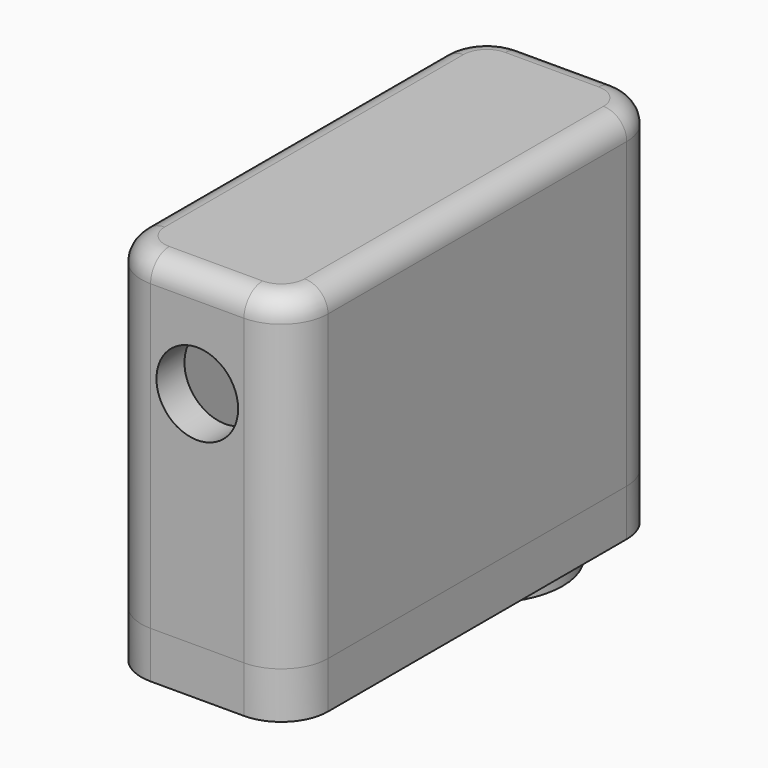
from build123d import *

# Parameters (mm, degrees)
F1_DEPTH  = 2
F2_R      = 2.25
F2_R_2    = 1.25
F3_DEPTH  = 2.001
F4_R      = 2.25
F4_R_2    = 1.25
F4_R_3    = 3.25
F5_DEPTH  = 1
F7_DEPTH  = 12
F8_R      = 1.75
F9_DEPTH  = 4
F11_DEPTH = 2
F12_R     = 1


with BuildPart() as f1:
    # F0 (on Top) → F1 (new body)
    with BuildSketch(Plane.XY):
        with BuildLine():
            ThreePointArc((0, 2), (0.585786, 0.585786), (2, 0))
            Line((2, 0), (6, 0))
            ThreePointArc((6, 0), (7.414214, 0.585786), (8, 2))
            Line((8, 2), (8, 18))
            ThreePointArc((8, 18), (7.414214, 19.414214), (6, 20))
            Line((6, 20), (2, 20))
            ThreePointArc((2, 20), (0.585786, 19.414214), (0, 18))
            Line((0, 18), (0, 2))
        make_face()
    extrude(amount=F1_DEPTH)

    # F2 (on face) → F3 (cut, through all)
    with BuildSketch(Plane(origin=(0, 0, 0), x_dir=(1, 0, 0), z_dir=(0, 0, -1))):
        with Locations((4, -15.5)):
            Circle(F2_R)
        with Locations((4, -4.5)):
            Circle(F2_R_2)
    extrude(amount=-F3_DEPTH, mode=Mode.SUBTRACT)

    # F4 (on face) → F5 (join)
    with BuildSketch(Plane(origin=(0, 0, 0), x_dir=(1, 0, 0), z_dir=(0, 0, -1))):
        with Locations((4, -4.5)):
            Circle(F4_R)
        with Locations((4, -4.5)):
            Circle(F4_R_2, mode=Mode.SUBTRACT)
        with Locations((4, -15.5)):
            Circle(F4_R_3)
        with Locations((4, -15.5)):
            Circle(F4_R, mode=Mode.SUBTRACT)
    extrude(amount=F5_DEPTH)


with BuildPart() as f7:
    # F6 (on face) → F7 (new body)
    with BuildSketch(Plane.XY.offset(2)):
        with BuildLine():
            ThreePointArc((0, 2), (0.585786, 0.585786), (2, 0))
            Line((2, 0), (6, 0))
            ThreePointArc((6, 0), (7.414214, 0.585786), (8, 2))
            Line((8, 2), (8, 18))
            ThreePointArc((8, 18), (7.414214, 19.414214), (6, 20))
            Line((6, 20), (2, 20))
            ThreePointArc((2, 20), (0.585786, 19.414214), (0, 18))
            Line((0, 18), (0, 2))
        make_face()
        with BuildLine():
            ThreePointArc((2, 1.5), (1.646447, 1.646447), (1.5, 2))
            Line((1.5, 2), (1.5, 18))
            ThreePointArc((1.5, 18), (1.646447, 18.353553), (2, 18.5))
            Line((2, 18.5), (6, 18.5))
            ThreePointArc((6, 18.5), (6.353553, 18.353553), (6.5, 18))
            Line((6.5, 18), (6.5, 2))
            ThreePointArc((6.5, 2), (6.353553, 1.646447), (6, 1.5))
            Line((6, 1.5), (2, 1.5))
        make_face(mode=Mode.SUBTRACT)
    extrude(amount=F7_DEPTH)

    # F8 (on face) → F9 (cut)
    with BuildSketch(Plane.XZ):
        with Locations((4, 11.5)):
            Circle(F8_R)
    extrude(amount=-F9_DEPTH, mode=Mode.SUBTRACT)

    # F10 (on face) → F11 (join)
    with BuildSketch(Plane.XY.offset(14)):
        with BuildLine():
            Line((6, 20), (2, 20))
            ThreePointArc((2, 20), (0.585786, 19.414214), (0, 18))
            Line((0, 18), (0, 2))
            ThreePointArc((0, 2), (0.585786, 0.585786), (2, 0))
            Line((2, 0), (6, 0))
            ThreePointArc((6, 0), (7.414214, 0.585786), (8, 2))
            Line((8, 2), (8, 18))
            ThreePointArc((8, 18), (7.414214, 19.414214), (6, 20))
        make_face()
    extrude(amount=F11_DEPTH)

    # F12
    f12_edges = [f7.edges().sort_by_distance(p)[0] for p in [
        (8, 10, 16),
    ]]
    fillet(f12_edges, radius=F12_R)


solid = Compound([f1.part, f7.part])
